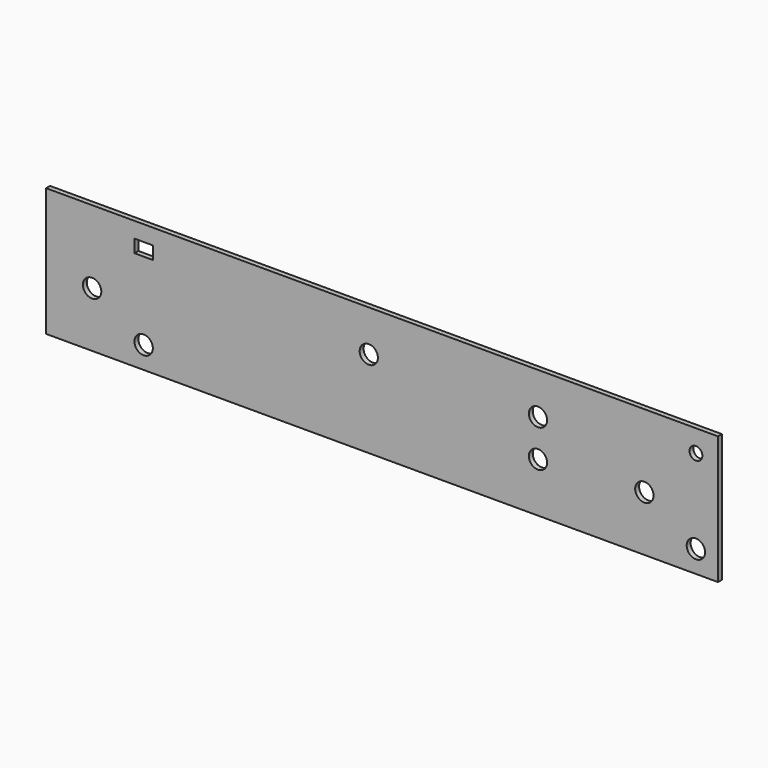
from build123d import *

# Parameters (mm, degrees)
F0_W     = 365
F0_H     = 69.7
F0_R     = 5
F0_R_2   = 4.95
F0_W_2   = 10
F0_H_2   = 7
F0_R_3   = 3.5
F1_DEPTH = 2.67


with BuildPart() as f1:
    # F0 (on Front) → F1 (new body)
    with BuildSketch(Plane.XZ):
        with Locations((182.5, 34.85)):
            Rectangle(F0_W, F0_H)
        with Locations((53, 12)):
            Circle(F0_R, mode=Mode.SUBTRACT)
        with Locations((25, 30)):
            Circle(F0_R, mode=Mode.SUBTRACT)
        with Locations((353, 12)):
            Circle(F0_R, mode=Mode.SUBTRACT)
        with Locations((267.2, 26.9)):
            Circle(F0_R_2, mode=Mode.SUBTRACT)
        with Locations((325, 30)):
            Circle(F0_R, mode=Mode.SUBTRACT)
        with Locations((175.3, 47.2)):
            Circle(F0_R_2, mode=Mode.SUBTRACT)
        with Locations((53, 57.7)):
            Rectangle(F0_W_2, F0_H_2, mode=Mode.SUBTRACT)
        with Locations((267.2, 47.2)):
            Circle(F0_R_2, mode=Mode.SUBTRACT)
        with Locations((353, 57.7)):
            Circle(F0_R_3, mode=Mode.SUBTRACT)
        with Locations((182.5, 34.85)):
            Rectangle(F0_W, F0_H)
        with Locations((53, 12)):
            Circle(F0_R, mode=Mode.SUBTRACT)
        with Locations((25, 30)):
            Circle(F0_R, mode=Mode.SUBTRACT)
        with Locations((353, 12)):
            Circle(F0_R, mode=Mode.SUBTRACT)
        with Locations((267.2, 26.9)):
            Circle(F0_R_2, mode=Mode.SUBTRACT)
        with Locations((325, 30)):
            Circle(F0_R, mode=Mode.SUBTRACT)
        with Locations((175.3, 47.2)):
            Circle(F0_R_2, mode=Mode.SUBTRACT)
        with Locations((53, 57.7)):
            Rectangle(F0_W_2, F0_H_2, mode=Mode.SUBTRACT)
        with Locations((267.2, 47.2)):
            Circle(F0_R_2, mode=Mode.SUBTRACT)
        with Locations((353, 57.7)):
            Circle(F0_R_3, mode=Mode.SUBTRACT)
    extrude(amount=F1_DEPTH)


solid = f1.part
